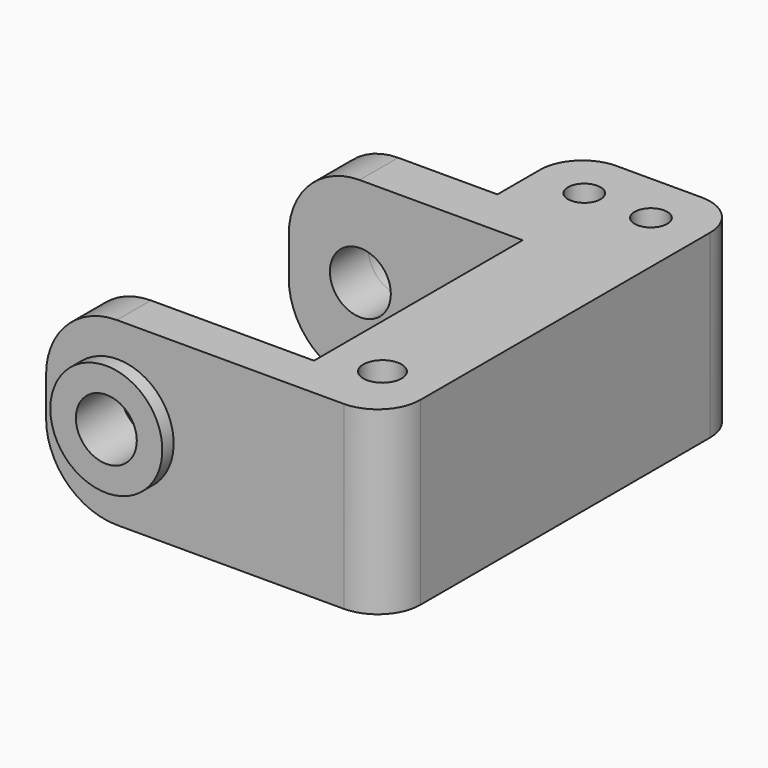
from build123d import *

# Parameters (mm, degrees)
F0_R     = 1.35
F0_R_2   = 1.15
F1_DEPTH = 12.73
F3_DEPTH = 25
F4_R     = 5
F5_R     = 3
F6_R     = 3
F7_DEPTH = 1
F8_R     = 3.95
F9_DEPTH = 1


with BuildPart() as f1:
    # F0 (on Top) → F1 (new body)
    with BuildSketch(Plane.XY):
        Polygon((3.75, -4.35), (3.75, 0), (3.75, 27.2), (-8.25, 27.2), (-8.25, 20.45), (-20.25, 20.45), (-20.25, 17.05), (-3.75, 17.05), (-3.75, -1.35), (-20.25, -1.35), (-20.25, -4.35), align=None)
        Circle(F0_R, mode=Mode.SUBTRACT)
        with Locations((-4.6, 23.55)):
            Circle(F0_R_2, mode=Mode.SUBTRACT)
        with Locations((0.1, 23.55)):
            Circle(F0_R_2, mode=Mode.SUBTRACT)
    extrude(amount=F1_DEPTH)

    # F2 (on face) → F3 (cut)
    with BuildSketch(Plane.XZ.offset(4.35)):
        with BuildLine():
            ThreePointArc((-17.35, 6.365), (-15.2, 4.215), (-13.05, 6.365))
            ThreePointArc((-13.05, 6.365), (-15.2, 8.515), (-17.35, 6.365))
        make_face()
    extrude(amount=-F3_DEPTH, mode=Mode.SUBTRACT)

    # F4
    f4_edges = [f1.edges().sort_by_distance(p)[0] for p in [
        (-20.25, -2.85, 12.73),
        (-20.25, 18.75, 12.73),
        (-20.25, -2.85, 0),
        (-20.25, 18.75, 0),
    ]]
    fillet(f4_edges, radius=F4_R)

    # F5
    f5_edges = [f1.edges().sort_by_distance(p)[0] for p in [
        (3.75, -4.35, 6.365),
    ]]
    fillet(f5_edges, radius=F5_R)

    # F6
    f6_edges = [f1.edges().sort_by_distance(p)[0] for p in [
        (-8.25, 27.2, 6.365),
        (3.75, 27.2, 6.365),
    ]]
    fillet(f6_edges, radius=F6_R)

    # F2 (on face) → F7 (join)
    with BuildSketch(Plane.XZ.offset(4.35)):
        with BuildLine():
            ThreePointArc((-11.25, 6.365), (-15.2, 10.315), (-19.15, 6.365))
            ThreePointArc((-19.15, 6.365), (-15.2, 2.415), (-11.25, 6.365))
        make_face()
        with BuildLine():
            ThreePointArc((-17.35, 6.365), (-15.2, 8.515), (-13.05, 6.365))
            ThreePointArc((-13.05, 6.365), (-15.2, 4.215), (-17.35, 6.365))
        make_face(mode=Mode.SUBTRACT)
    extrude(amount=F7_DEPTH)

    # F8 (on face) → F9 (join)
    with BuildSketch(Plane(origin=(0, 20.45, 0), x_dir=(-1, 0, 0), z_dir=(0, 1, 0))):
        with Locations((15.2, 6.365)):
            Circle(F8_R)
        with BuildLine():
            ThreePointArc((13.05, 6.365), (15.2, 8.515), (17.35, 6.365))
            ThreePointArc((17.35, 6.365), (15.2, 4.215), (13.05, 6.365))
        make_face(mode=Mode.SUBTRACT)
    extrude(amount=F9_DEPTH)


solid = f1.part
